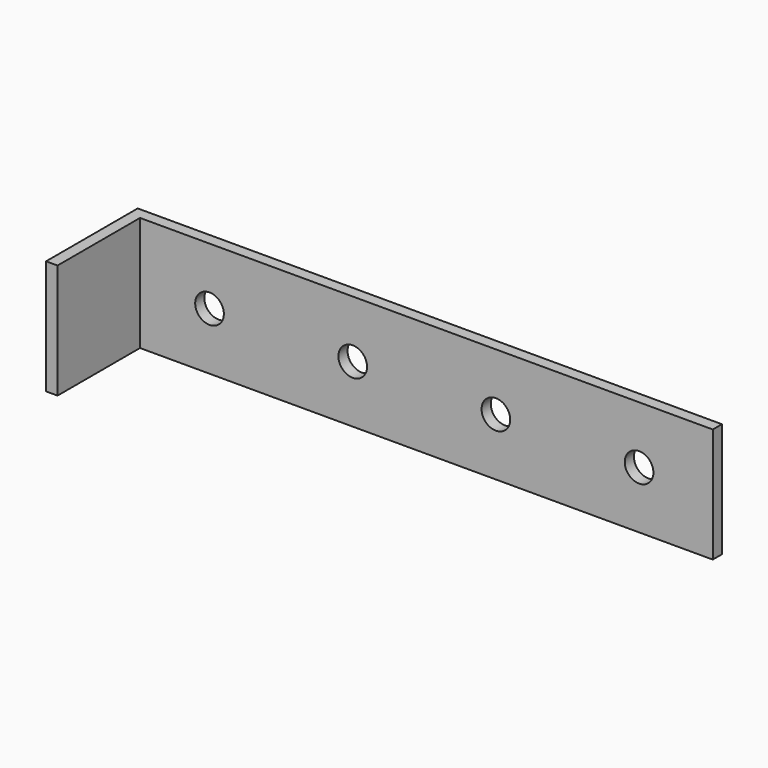
from build123d import *

# Parameters (mm, degrees)
F0_W     = 100
F0_H     = 20
F0_R     = 2.5
F1_DEPTH = 2
F2_W     = 20
F2_H     = 20
F3_DEPTH = 2


with BuildPart() as f1:
    # F0 (on Front) → F1 (new body)
    with BuildSketch(Plane.XZ):
        with Locations((-50, 10)):
            Rectangle(F0_W, F0_H)
        with Locations((-87.863162, 10)):
            Circle(F0_R, mode=Mode.SUBTRACT)
        with Locations((-62.863162, 10)):
            Circle(F0_R, mode=Mode.SUBTRACT)
        with Locations((-37.863162, 10)):
            Circle(F0_R, mode=Mode.SUBTRACT)
        with Locations((-12.863162, 10)):
            Circle(F0_R, mode=Mode.SUBTRACT)
    extrude(amount=F1_DEPTH)

    # F2 (on face) → F3 (join)
    with BuildSketch(Plane(origin=(-100, 0, 0), x_dir=(0, -1, 0), z_dir=(-1, 0, 0))):
        with Locations((10, 10)):
            Rectangle(F2_W, F2_H)
    extrude(amount=F3_DEPTH)


solid = f1.part
